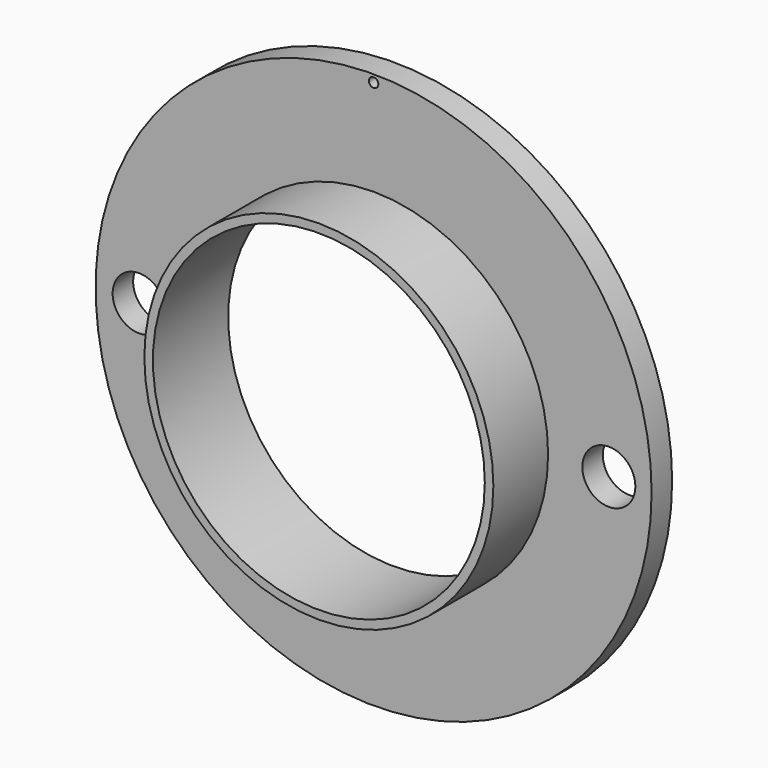
from build123d import *

# Parameters (mm, degrees)
F0_R     = 32.5
F1_DEPTH = 3
F2_R     = 20.4
F3_DEPTH = 8
F4_R     = 19.4
F5_DEPTH = 11.001
F6_R     = 3.1
F6_R_2   = 0.551099
F7_DEPTH = 3.001


with BuildPart() as f1:
    # F0 (on Front) → F1 (new body)
    with BuildSketch(Plane.XZ):
        Circle(F0_R)
    extrude(amount=F1_DEPTH)

    # F2 (on face) → F3 (join)
    with BuildSketch(Plane.XZ.offset(3)):
        Circle(F2_R)
    extrude(amount=F3_DEPTH)

    # F4 (on face) → F5 (cut, through all)
    with BuildSketch(Plane.XZ.offset(11)):
        Circle(F4_R)
    extrude(amount=-F5_DEPTH, mode=Mode.SUBTRACT)

    # F6 (on face) → F7 (cut, through all)
    with BuildSketch(Plane.XZ.offset(3)):
        with Locations((27.5, 0)):
            Circle(F6_R)
        with Locations((-27.406738, 0)):
            Circle(F6_R)
        with Locations((0, 31.629574)):
            Circle(F6_R_2)
    extrude(amount=-F7_DEPTH, mode=Mode.SUBTRACT)


solid = f1.part
